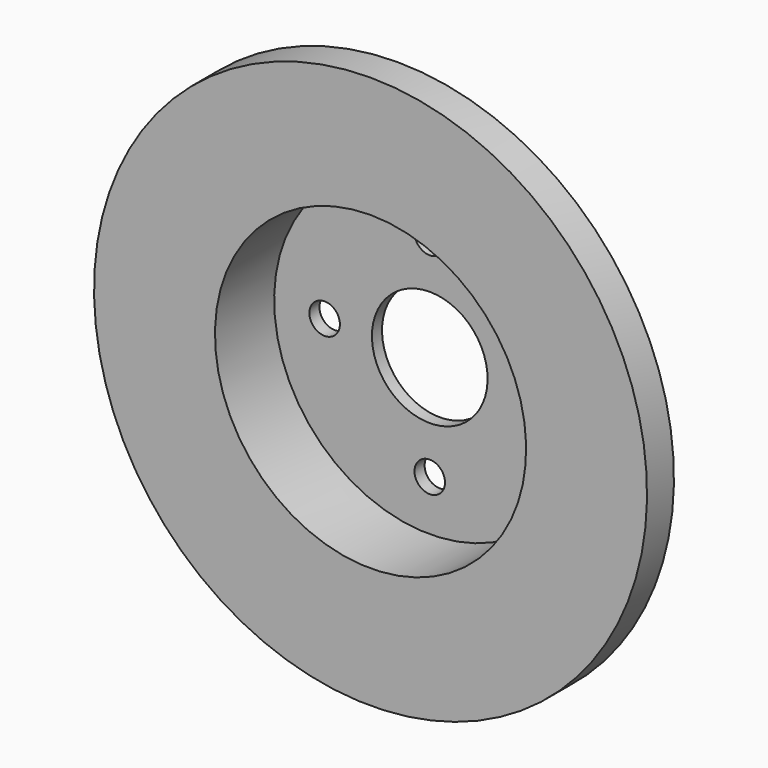
from build123d import *

# Parameters (mm, degrees)
F3_D = 14.5


with BuildPart() as f1:
    # F0 (on Right) → F1 (revolve)
    with BuildSketch(Plane.YZ):
        Polygon((0, 74), (0, 27.5), (6, 27.5), (6, 80), (-19.2, 80), (-19.2, 131.5), (-35.2, 131.5), (-35.2, 74), align=None)
    revolve(axis=Axis((0, -66.1122447776, 0), (0, -1, 0)))

    # F3 (through all)
    with Locations(Plane(origin=(0, 6, 0), x_dir=(-1, 0, 0), z_dir=(0, 1, 0))):
        with Locations((0, 50), (50, 0), (0, -50), (-50, 0)):
            Hole(F3_D / 2)


solid = f1.part
